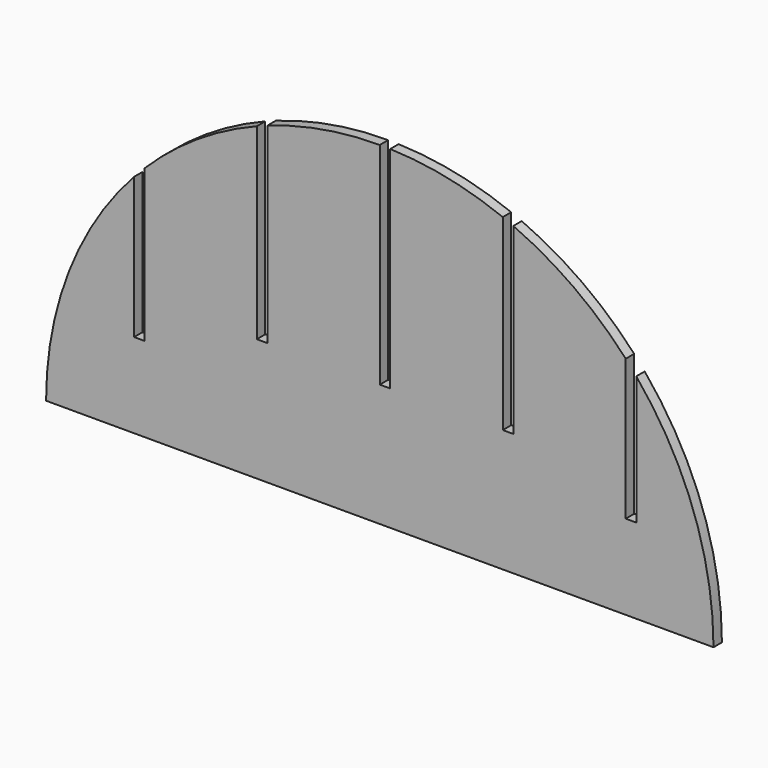
from build123d import *

# Parameters (mm, degrees)
F1_DEPTH = 3


with BuildPart() as f1:
    # F0 (on Front) → F1 (new body)
    with BuildSketch(Plane.XZ):
        with BuildLine():
            Line((70, 0), (94.969561, 0))
            ThreePointArc((94.969561, 0), (89.308441, 32.298913), (73, 60.74716))
            Line((73, 60.74716), (73, 24.099964))
            Line((73, 24.099964), (70, 24.099964))
            Line((70, 24.099964), (70, 64.18113))
            ThreePointArc((70, 64.18113), (55.195862, 77.28282), (38, 87.035725))
            Line((38, 87.035725), (38, 34.923317))
            Line((38, 34.923317), (35, 34.923317))
            Line((35, 34.923317), (35, 88.284865))
            ThreePointArc((35, 88.284865), (19.269689, 92.994067), (2.963333, 94.923317))
            Line((2.963333, 94.923317), (2.963333, 34.923317))
            Line((2.963333, 34.923317), (0, 34.923317))
            Line((0, 34.923317), (0, 94.969561))
            ThreePointArc((0, 94.969561), (-16.239168, 93.570865), (-32, 89.41598))
            Line((-32, 89.41598), (-32, 34.923317))
            Line((-32, 34.923317), (-35, 34.923317))
            Line((-35, 34.923317), (-35, 88.284865))
            ThreePointArc((-35, 88.284865), (-52.026967, 79.45069), (-66.931372, 67.375136))
            Line((-66.931372, 67.375136), (-66.931372, 24.099964))
            Line((-66.931372, 24.099964), (-69.931372, 24.099964))
            Line((-69.931372, 24.099964), (-69.931372, 64.2559))
            ThreePointArc((-69.931372, 64.2559), (-88.488895, 34.480906), (-94.969561, 0))
            Line((-94.969561, 0), (-69.931372, 0))
            Line((-69.931372, 0), (-35, 0))
            Line((-35, 0), (0, 0))
            Line((0, 0), (35, 0))
            Line((35, 0), (70, 0))
        make_face()
    extrude(amount=F1_DEPTH)


solid = f1.part
